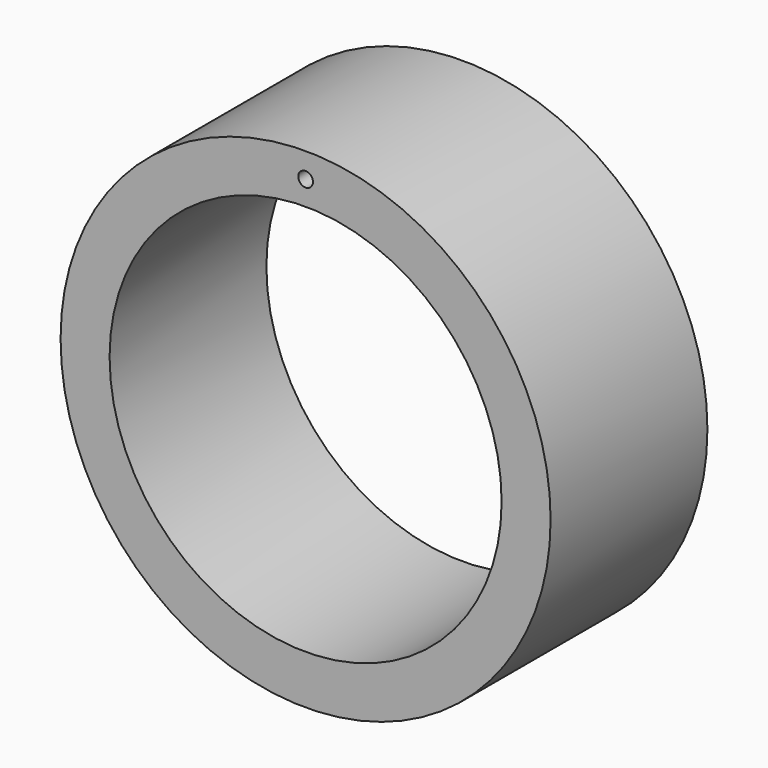
from build123d import *

# Parameters (mm, degrees)
F0_R     = 31.75
F0_R_2   = 25.4
F0_R_3   = 0.9525
F1_DEPTH = 25.4


with BuildPart() as f1:
    # F0 (on Front) → F1 (new body)
    with BuildSketch(Plane.XZ):
        Circle(F0_R)
        Circle(F0_R_2, mode=Mode.SUBTRACT)
        with Locations((0, 28.517142)):
            Circle(F0_R_3, mode=Mode.SUBTRACT)
    extrude(amount=-F1_DEPTH)


solid = f1.part
